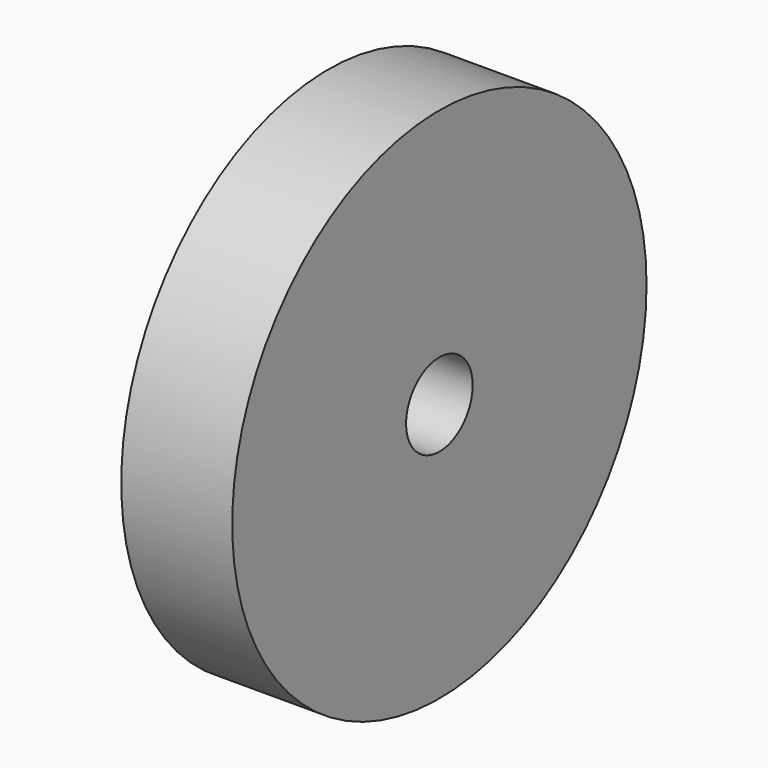
from build123d import *

# Parameters (mm, degrees)
F0_R     = 177.8
F1_DEPTH = 76.2
F2_R     = 28.575
F3_DEPTH = 76.201


with BuildPart() as f1:
    # F0 (on Right) → F1 (new body)
    with BuildSketch(Plane.YZ):
        Circle(F0_R)
    extrude(amount=F1_DEPTH)

    # F2 (on face) → F3 (cut, through all)
    with BuildSketch(Plane.YZ.offset(76.2)):
        Circle(F2_R)
    extrude(amount=-F3_DEPTH, mode=Mode.SUBTRACT)


solid = f1.part
